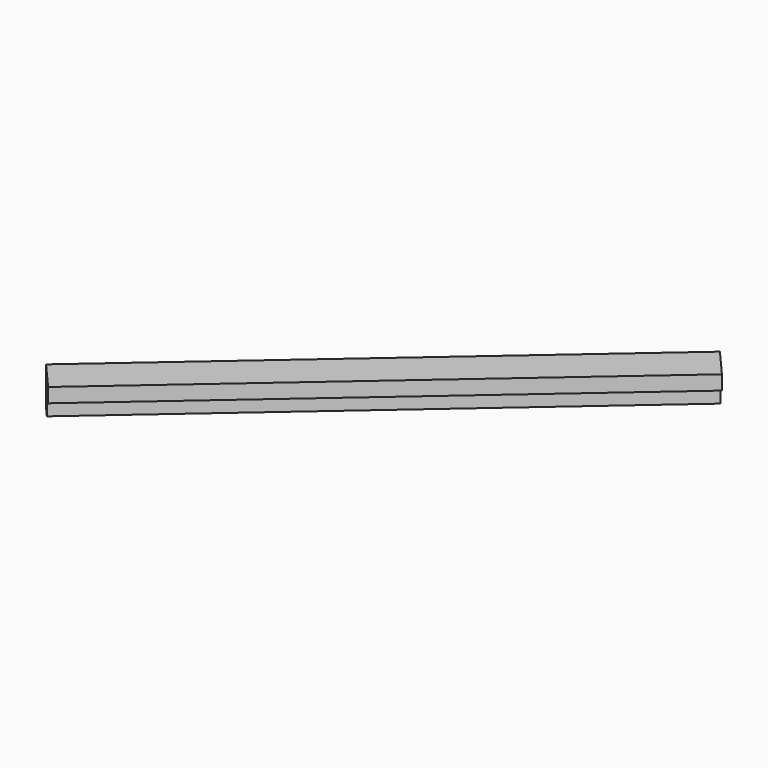
from build123d import *

# Parameters (mm, degrees)
BOX197_W               = 0.8
BOX197_H               = 11
BOX197_DEPTH           = 0.8
BOX198_W               = 0.8
BOX198_H               = 11
BOX198_DEPTH           = 0.8
CUT102_PLACEMENT_ANGLE = 131


with BuildPart() as cubo197:
    # Box197 → Box197 (new body)
    with BuildSketch(Plane.XY):
        with Locations((0.4, 5.5)):
            Rectangle(BOX197_W, BOX197_H)
    extrude(amount=BOX197_DEPTH)


with BuildPart() as obj1:
    # Box198 → Box198 (new body)
    with BuildSketch(Plane(origin=(0.3, 0, 0.3), x_dir=(1, 0, 0), z_dir=(0, 0, 1))):
        with Locations((0.4, 5.5)):
            Rectangle(BOX198_W, BOX198_H)
    extrude(amount=BOX198_DEPTH)

    # Cut102: cut Cubo197
    add(cubo197.part, mode=Mode.SUBTRACT)


with BuildPart() as obj1_1:
    # Cut102 placement: moved
    add(obj1.part.moved(Location((-65, 223.8, -1.45))).rotate(Axis((-65, 223.8, -1.45), (0, 0, 1)), CUT102_PLACEMENT_ANGLE))


solid = obj1_1.part
